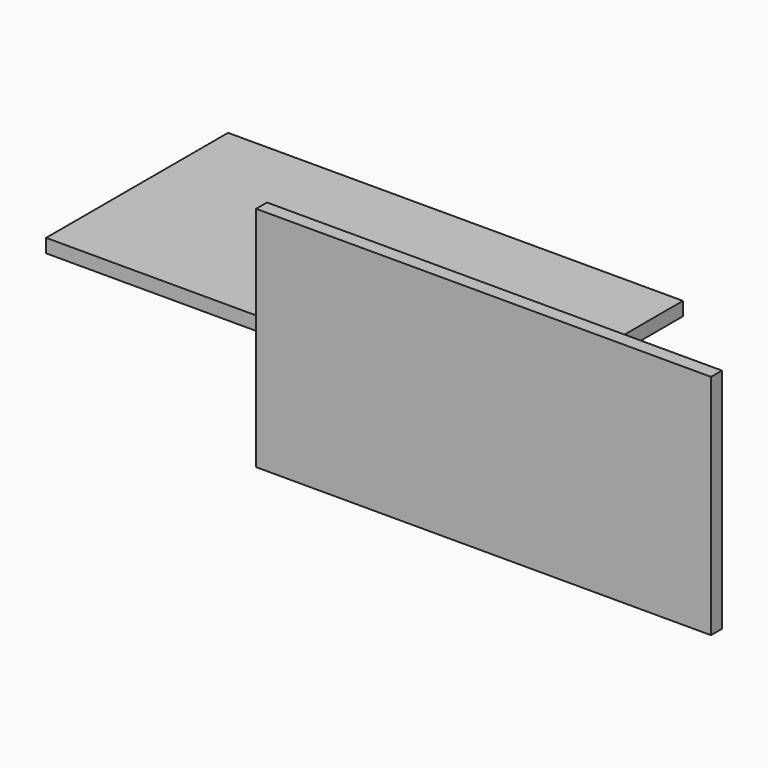
from build123d import *

# Parameters (mm, degrees)
F0_W     = 100
F0_H     = 50
F1_DEPTH = 3
F2_W     = 100
F2_H     = 50
F3_DEPTH = 3


with BuildPart() as f1:
    # F0 (on Front) → F1 (new body)
    with BuildSketch(Plane.XZ):
        Rectangle(F0_W, F0_H)
    extrude(amount=F1_DEPTH)

    # F2 (on Top) → F3 (join)
    with BuildSketch(Plane.XY):
        with Locations((-47.80928, 24.052748)):
            Rectangle(F2_W, F2_H)
    extrude(amount=F3_DEPTH)


solid = f1.part
